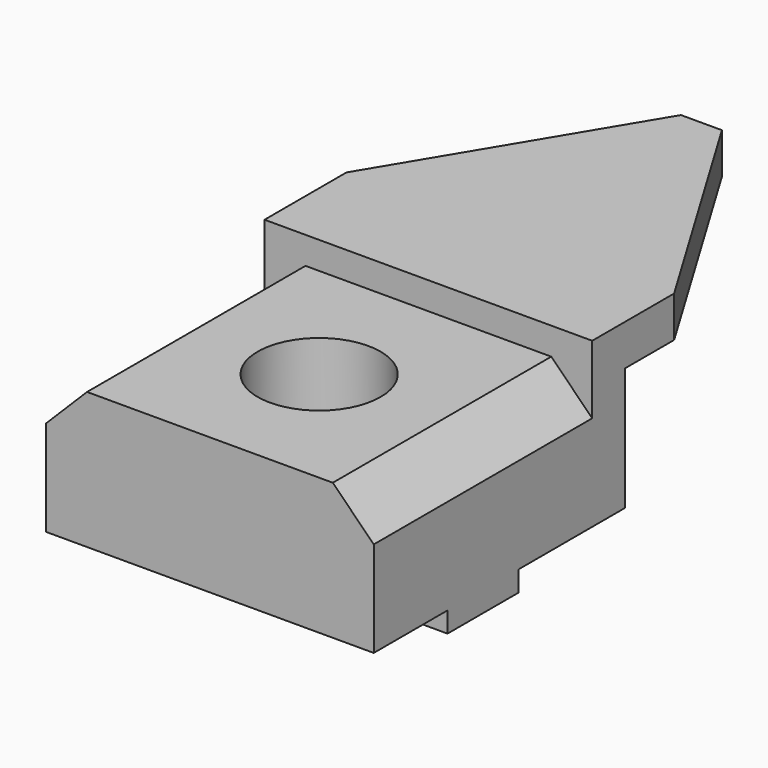
from build123d import *

# Parameters (mm, degrees)
F1_DEPTH  = 63.5
F2_W      = 76.2
F2_H      = 4.7625
F3_DEPTH  = 103.378
F5_DEPTH  = 9.525
F6_W      = 57.15
F6_H      = 9.525
F7_DEPTH  = 6.35
F9_DEPTH  = 9.525
F10_W     = 76.2
F10_H     = 9.525
F11_DEPTH = 23.8125
F12_W     = 76.2
F12_H     = 9.525
F13_DEPTH = 46.0375
F15_DEPTH = 25.4
F17_DEPTH = 4.7625
F19_DEPTH = 54.356


with BuildPart() as f1:
    # F0 (on Front) → F1 (new body)
    with BuildSketch(Plane.XZ):
        Polygon((-48.8179810345, -18.3191206306), (-48.8179810345, -45.3066206306), (27.3820189655, -45.3066206306), (27.3820189655, -18.3191206306), (17.8570189655, -8.7941206306), (-39.2929810345, -8.7941206306), align=None)
    extrude(amount=F1_DEPTH)

    # F2 (on face) → F3 (cut)
    with BuildSketch(Plane.XZ.offset(63.5)):
        with Locations((-10.7179810345, -42.9253706306)):
            Rectangle(F2_W, F2_H)
    extrude(amount=-F3_DEPTH, mode=Mode.SUBTRACT)

    # F4 (on face) → F5 (join)
    with BuildSketch(Plane(origin=(0, 0, 0), x_dir=(-1, 0, 0), z_dir=(0, 1, 0))):
        Polygon((48.8179810345, -18.3191206306), (39.2929810345, -8.7941206306), (-17.8570189655, -8.7941206306), (-27.3820189655, -18.3191206306), (-27.3820189655, -40.5441206306), (48.8179810345, -40.5441206306), align=None)
    extrude(amount=F5_DEPTH)

    # F6 (on face) → F7 (join)
    with BuildSketch(Plane.XY.offset(-8.7941206306)):
        with Locations((-10.7179810345, 4.7625)):
            Rectangle(F6_W, F6_H)
    extrude(amount=F7_DEPTH)

    # F8 (on face) → F9 (join)
    with BuildSketch(Plane(origin=(0, 9.525, 0), x_dir=(-1, 0, 0), z_dir=(0, 1, 0))):
        Polygon((-17.8570189655, -8.7941206306), (-17.8570189655, -2.4441206306), (-27.3820189655, -2.4441206306), (-27.3820189655, -18.3191206306), align=None)
        Polygon((48.8179810345, -2.4441206306), (39.2929810345, -2.4441206306), (39.2929810345, -8.7941206306), (48.8179810345, -18.3191206306), align=None)
    extrude(amount=-F9_DEPTH)

    # F10 (on face) → F11 (join)
    with BuildSketch(Plane(origin=(0, 9.525, 0), x_dir=(-1, 0, 0), z_dir=(0, 1, 0))):
        with Locations((10.7179810345, -7.2066206306)):
            Rectangle(F10_W, F10_H)
    extrude(amount=F11_DEPTH)

    # F12 (on face) → F13 (join)
    with BuildSketch(Plane(origin=(0, 33.3375, 0), x_dir=(-1, 0, 0), z_dir=(0, 1, 0))):
        with Locations((10.7179810345, -7.2066206306)):
            Rectangle(F12_W, F12_H)
    extrude(amount=F13_DEPTH)

    # F14 (on face) → F15 (cut)
    with BuildSketch(Plane.XY.offset(-2.4441206306)):
        Polygon((-48.8179810345, 23.8125), (-15.4804810345, 79.375), (-48.8179810345, 79.375), align=None)
        Polygon((27.3820189655, 79.375), (-5.9554810345, 79.375), (27.3820189655, 23.8125), align=None)
    extrude(amount=-F15_DEPTH, mode=Mode.SUBTRACT)

    # F16 (on face) → F17 (join)
    with BuildSketch(Plane(origin=(0, 0, -40.5441206306), x_dir=(1, 0, 0), z_dir=(0, 0, -1))):
        Polygon((27.3820189655, 31.75), (27.3820189655, 42.0624), (-48.8179810345, 42.0624), (-48.8179810345, 21.43125), (27.3820189655, 21.43125), align=None)
    extrude(amount=F17_DEPTH)

    # F18 (on face) → F19 (cut)
    with BuildSketch(Plane.XY.offset(-8.7941206306)):
        with BuildLine():
            ThreePointArc((-10.7179810345, -46.0375), (-0.6151928983, -41.8527881362), (3.5695189655, -31.75))
            ThreePointArc((3.5695189655, -31.75), (-20.8207691707, -21.6472118638), (-10.7179810345, -46.0375))
        make_face()
    extrude(amount=-F19_DEPTH, mode=Mode.SUBTRACT)


solid = f1.part
